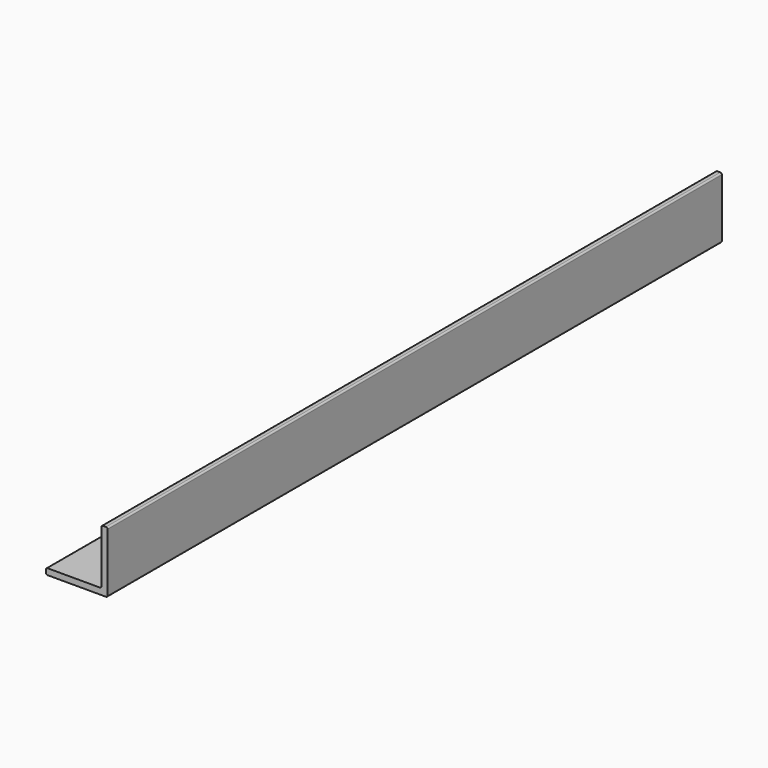
from build123d import *

# Parameters (mm, degrees)
F1_DEPTH = 250
F2_R     = 2.1
F3_DEPTH = 25


with BuildPart() as f1:
    # F0 (on Front) → F1 (new body)
    with BuildSketch(Plane.XZ):
        with BuildLine():
            ThreePointArc((-0.5, 0), (-0.146447, 0.146447), (0, 0.5))
            Line((0, 0.5), (0, 19.5))
            ThreePointArc((0, 19.5), (-0.146447, 19.853553), (-0.5, 20))
            Line((-0.5, 20), (-1.5, 20))
            ThreePointArc((-1.5, 20), (-1.853553, 19.853553), (-2, 19.5))
            Line((-2, 19.5), (-2, 2.5))
            ThreePointArc((-2, 2.5), (-2.146447, 2.146447), (-2.5, 2))
            Line((-2.5, 2), (-19.5, 2))
            ThreePointArc((-19.5, 2), (-19.853553, 1.853553), (-20, 1.5))
            Line((-20, 1.5), (-20, 0.5))
            ThreePointArc((-20, 0.5), (-19.853553, 0.146447), (-19.5, 0))
            Line((-19.5, 0), (-0.5, 0))
        make_face()
    extrude(amount=F1_DEPTH)

    # F2 (on face) → F3 (cut)
    with BuildSketch(Plane(origin=(0, 0, 0), x_dir=(1, 0, 0), z_dir=(0, 0, -1))):
        with Locations((-10, 225)):
            Circle(F2_R)
        with Locations((-10, 150)):
            Circle(F2_R)
        with Locations((-10, 75)):
            Circle(F2_R)
        with Locations((-10, 0)):
            Circle(F2_R)
        with Locations((-10, -75)):
            Circle(F2_R)
    extrude(amount=-F3_DEPTH, mode=Mode.SUBTRACT)


solid = f1.part
